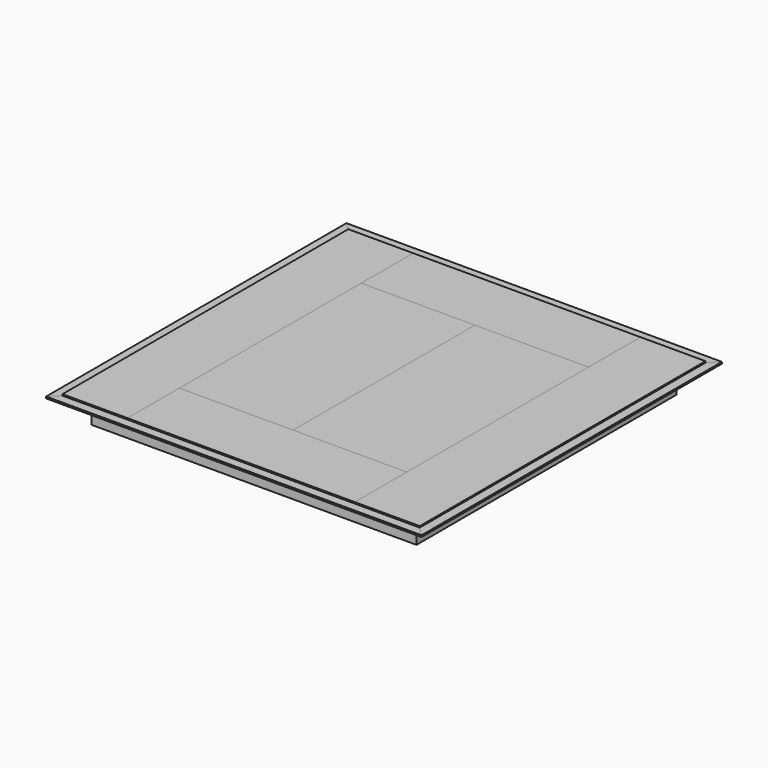
from build123d import *

# Parameters (mm, degrees)
F1_DEPTH  = 881.0625
F3_DEPTH  = 152.4
F6_DEPTH  = 881.0625
F8_DEPTH  = 152.4
F10_W     = 304.8
F10_H     = 1676.4
F11_DEPTH = 6.35
F13_W     = 1066.8
F13_H     = 304.8
F14_DEPTH = 6.35
F16_W     = 533.4
F16_H     = 1066.8
F17_DEPTH = 6.35
F20_DEPTH = 749.3
F23_DEPTH = 508
F26_DEPTH = 508


with BuildPart() as f1:
    # F0 (on Right) → F1 (new body, symmetric)
    with BuildSketch(Plane.YZ):
        Polygon((-754.0625, -127), (-754.0625, 0), (-881.0625, 0), (-881.0625, -7.9375), (-762, -7.9375), (-762, -127), align=None)
    extrude(amount=F1_DEPTH, both=True)

    # F2 (on face) → F3 (cut)
    with BuildSketch(Plane.XY):
        Polygon((-754.0625, -754.0625), (-881.0625, -754.0625), (-881.0625, -881.0625), align=None)
        Polygon((881.0625, -754.0625), (754.0625, -754.0625), (881.0625, -881.0625), align=None)
    extrude(amount=-F3_DEPTH, mode=Mode.SUBTRACT)


with BuildPart() as f4_1:
    # F4: instance of F1
    add(f1.part.mirror(Plane.XZ))


with BuildPart() as f6:
    # F5 (on Front) → F6 (new body, symmetric)
    with BuildSketch(Plane.XZ):
        Polygon((881.0625, 0), (754.0625, 0), (754.0625, -127), (762, -127), (762, -7.9375), (881.0625, -7.9375), align=None)
    extrude(amount=F6_DEPTH, both=True)

    # F7 (on face) → F8 (cut)
    with BuildSketch(Plane.XY):
        Polygon((881.0625, 881.0625), (754.0625, 881.0625), (754.0625, 754.0625), align=None)
        Polygon((754.0625, -754.0625), (754.0625, -881.0625), (881.0625, -881.0625), align=None)
    extrude(amount=-F8_DEPTH, mode=Mode.SUBTRACT)


with BuildPart() as f9_1:
    # F9: instance of F6
    add(f6.part.mirror(Plane.YZ))


with BuildPart() as f11:
    # F10 (on Top) → F11 (new body)
    with BuildSketch(Plane.XY):
        with Locations((-685.8, 0)):
            Rectangle(F10_W, F10_H)
    extrude(amount=F11_DEPTH)


with BuildPart() as f12_1:
    # F12: instance of F11
    add(f11.part.mirror(Plane.YZ))


with BuildPart() as f14:
    # F13 (on Top) → F14 (new body)
    with BuildSketch(Plane.XY):
        with Locations((0, 685.8)):
            Rectangle(F13_W, F13_H)
    extrude(amount=F14_DEPTH)


with BuildPart() as f15_1:
    # F15: instance of F14
    add(f14.part.mirror(Plane.XZ))


with BuildPart() as f17:
    # F16 (on Top) → F17 (new body)
    with BuildSketch(Plane.XY):
        with Locations((-266.7, 0)):
            Rectangle(F16_W, F16_H)
    extrude(amount=F17_DEPTH)


with BuildPart() as f18_1:
    # F18: instance of F17
    add(f17.part.mirror(Plane.YZ))


with BuildPart() as f20:
    # F19 (on Right) → F20 (new body, symmetric)
    with BuildSketch(Plane.YZ):
        Polygon((-508, 0), (-558.8, 0), (-558.8, -50.8), (-555.625, -50.8), (-555.625, -3.175), (-508, -3.175), align=None)
    extrude(amount=F20_DEPTH, both=True)


with BuildPart() as f21_1:
    # F21: instance of F20
    add(f20.part.mirror(Plane.XZ))


with BuildPart() as f23:
    # F22 (on Front) → F23 (new body, symmetric)
    with BuildSketch(Plane.XZ):
        Polygon((-508, 0), (-558.8, 0), (-558.8, -50.8), (-555.625, -50.8), (-555.625, -3.175), (-508, -3.175), align=None)
    extrude(amount=F23_DEPTH, both=True)


with BuildPart() as f24_1:
    # F24: instance of F23
    add(f23.part.mirror(Plane.YZ))


with BuildPart() as f26:
    # F25 (on Front) → F26 (new body, symmetric)
    with BuildSketch(Plane.XZ):
        Polygon((25.4, 0), (-25.4, 0), (-25.4, -50.8), (-22.225, -50.8), (-22.225, -3.175), (25.4, -3.175), align=None)
    extrude(amount=F26_DEPTH, both=True)


solid = Compound([f1.part, f4_1.part, f6.part, f9_1.part, f11.part, f12_1.part, f14.part, f15_1.part, f17.part, f18_1.part, f20.part, f21_1.part, f23.part, f24_1.part, f26.part])
